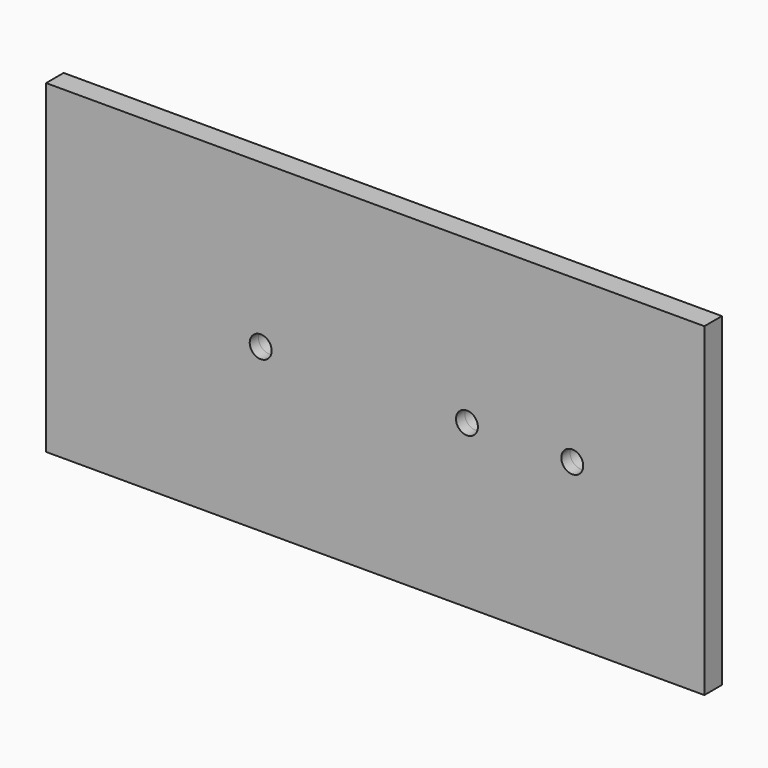
from build123d import *

# Parameters (mm, degrees)
F0_R     = 1.5875
F1_DEPTH = 1.5875


with BuildPart() as f1:
    # F0 (on Front) → F1 (new body, symmetric)
    with BuildSketch(Plane.XZ):
        Polygon((43.5661792159, 23.495), (-38.9838207841, 23.495), (-51.6838207841, 23.495), (-51.6838207841, -23.495), (-38.9838207841, -23.495), (43.5661792159, -23.495), align=None)
        with Locations((-20.6313711017, 0)):
            Circle(F0_R, mode=Mode.SUBTRACT)
        with BuildLine():
            ThreePointArc((10.8011288983, 0), (9.2136288983, -1.5875), (7.6261288983, 0))
            ThreePointArc((7.6261288983, 0), (9.2136288983, 1.5875), (10.8011288983, 0))
        make_face(mode=Mode.SUBTRACT)
        with BuildLine():
            ThreePointArc((26.0411288983, 0), (24.4536288983, -1.5875), (22.8661288983, 0))
            ThreePointArc((22.8661288983, 0), (24.4536288983, 1.5875), (26.0411288983, 0))
        make_face(mode=Mode.SUBTRACT)
    extrude(amount=F1_DEPTH, both=True)


solid = f1.part
